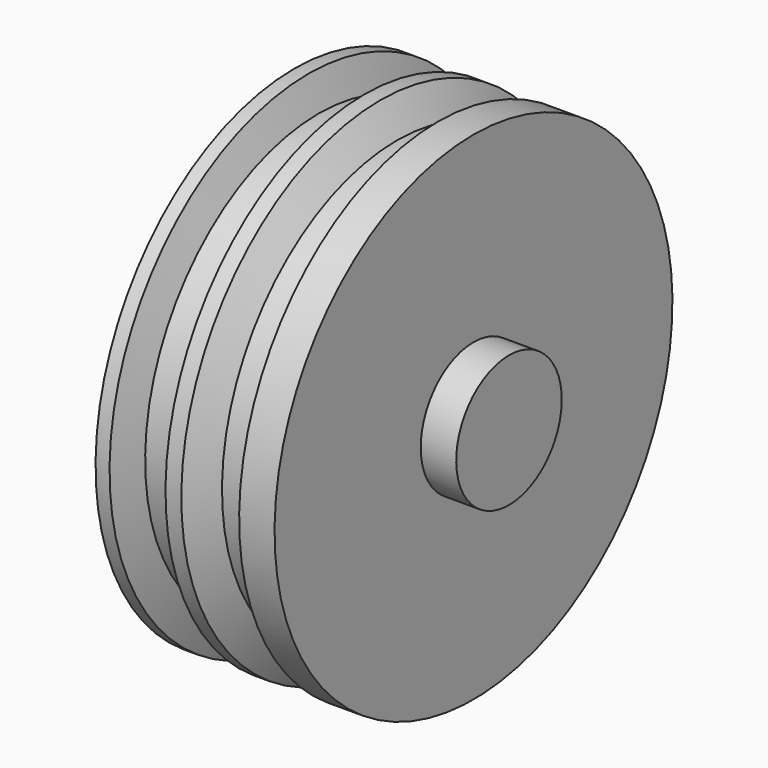
from build123d import *

# Parameters (mm, degrees)
F0_W = 1.133017
F0_H = 2.106278


with BuildPart() as f1:
    # F0 (on Front) → F1 (revolve)
    with BuildSketch(Plane.XZ):
        Polygon((-6.132401, 0), (0, 0), (0, 2.106278), (0, 7.941773), (-1.130549, 7.941773), (-1.726007, 6.989039), (-2.440557, 6.989039), (-2.97647, 7.941773), (-3.48261, 7.941773), (-4.107842, 6.929494), (-4.941484, 6.929494), (-5.268986, 7.941773), (-5.71558, 7.941773), (-5.71558, 6.125624), (-6.132401, 6.125624), align=None)
        with Locations((0.566508, 1.053139)):
            Rectangle(F0_W, F0_H)
    revolve(axis=Axis((-2.499692, 0, 0), (1, 0, 0)))


solid = f1.part
